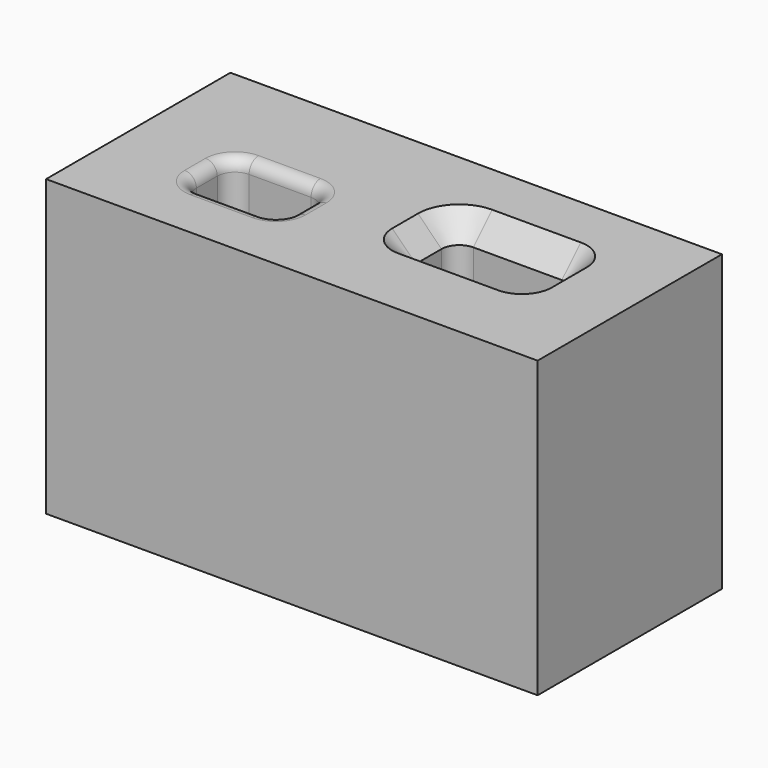
from build123d import *

# Parameters (mm, degrees)
F0_W     = 41.710345
F0_H     = 19.551726
F0_W_2   = 8.255173
F0_H_2   = 5.21379
F0_W_3   = 9.55862
F0_H_3   = 4.779309
F1_DEPTH = 25
F2_R     = 1.5
F3_R     = 0.55
F4_R     = 1
F5_SIZE  = 2


with BuildPart() as f1:
    # F0 (on Top) → F1 (new body)
    with BuildSketch(Plane.XY):
        with Locations((-29.001724, 36.931037)):
            Rectangle(F0_W, F0_H)
        with Locations((-38.343103, 34.975864)):
            Rectangle(F0_W_2, F0_H_2, mode=Mode.SUBTRACT)
        with Locations((-20.746552, 37.799999)):
            Rectangle(F0_W_3, F0_H_3, mode=Mode.SUBTRACT)
    extrude(amount=-F1_DEPTH)

    # F2
    f2_edges = [f1.edges().sort_by_distance(p)[0] for p in [
        (-42.47069, 37.582759, -12.5),
        (-34.215517, 37.582759, -12.5),
        (-42.47069, 32.368969, -12.5),
        (-34.215517, 32.368969, -12.5),
        (-25.525862, 40.189654, -12.5),
    ]]
    fillet(f2_edges, radius=F2_R)

    # F3
    f3_edges = [f1.edges().sort_by_distance(p)[0] for p in [
        (-15.967242, 40.189654, -12.5),
        (-25.525862, 35.410345, -12.5),
        (-15.967242, 35.410345, -12.5),
    ]]
    fillet(f3_edges, radius=F3_R)

    # F4
    f4_edges = [f1.edges().sort_by_distance(p)[0] for p in [
        (-38.343104, 37.582759, 0),
    ]]
    fillet(f4_edges, radius=F4_R)

    # F5
    f5_edges = [f1.edges().sort_by_distance(p)[0] for p in [
        (-20.271552, 40.189654, 0),
    ]]
    chamfer(f5_edges, length=F5_SIZE)


solid = f1.part
